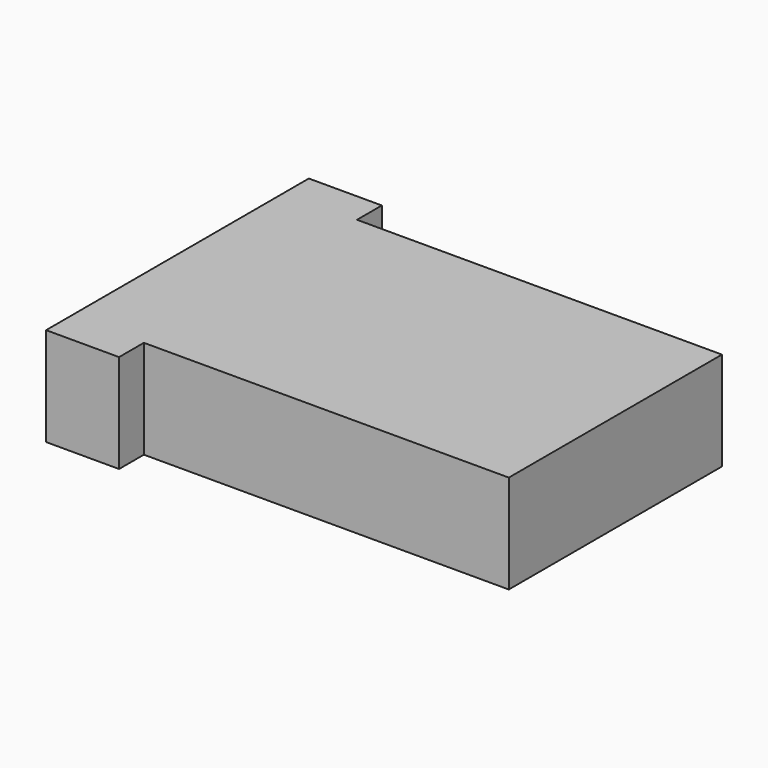
from build123d import *

# Parameters (mm, degrees)
PAD_DEPTH = 2.7


with BuildPart() as part:
    # Sketch → Pad (new body)
    with BuildSketch(Plane.XY):
        Polygon((-4.327297, 3.65), (5.672703, 3.65), (5.672703, -3.65), (-4.327297, -3.65), (-4.327297, -4.5), (-6.327297, -4.5), (-6.327297, 4.5), (-4.327297, 4.5), align=None)
    extrude(amount=PAD_DEPTH)


solid = part.part
